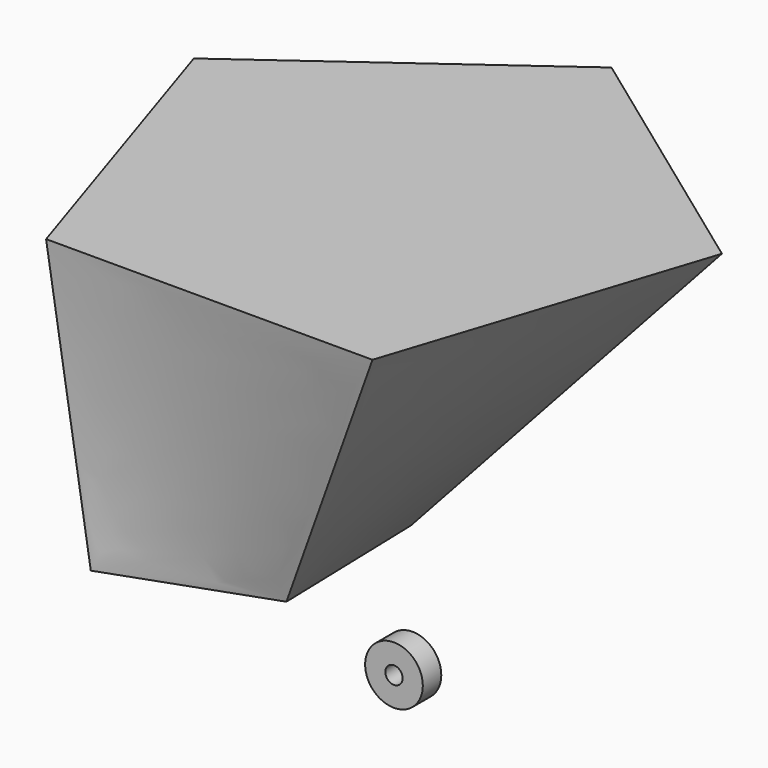
from build123d import *

# Parameters (mm, degrees)
F0_R     = 5
F0_R_2   = 1.5
F1_DEPTH = 4


with BuildPart() as f1:
    # F0 (on Front) → F1 (new body)
    with BuildSketch(Plane.XZ):
        Circle(F0_R)
        Circle(F0_R_2, mode=Mode.SUBTRACT)
    extrude(amount=F1_DEPTH)


with BuildPart() as f5:
    # F2 (on Top) → F5 section 0
    with BuildSketch(Plane.XY):
        Polygon((-51.164737, -5.721761), (-24.793796, 3.696474), (-25.602001, 31.687124), (-52.47244, 39.568062), (-68.27108, 16.4481), align=None)
    # F4 (on offset) → F5 section 1
    with BuildSketch(Plane.XY.offset(50)):
        Polygon((-56.585082, -8.630357), (0, -8.655848), (17.509995, 45.151886), (-28.253315, 78.432385), (-74.04659, 45.193131), align=None)
    loft()


solid = Compound([f1.part, f5.part])
